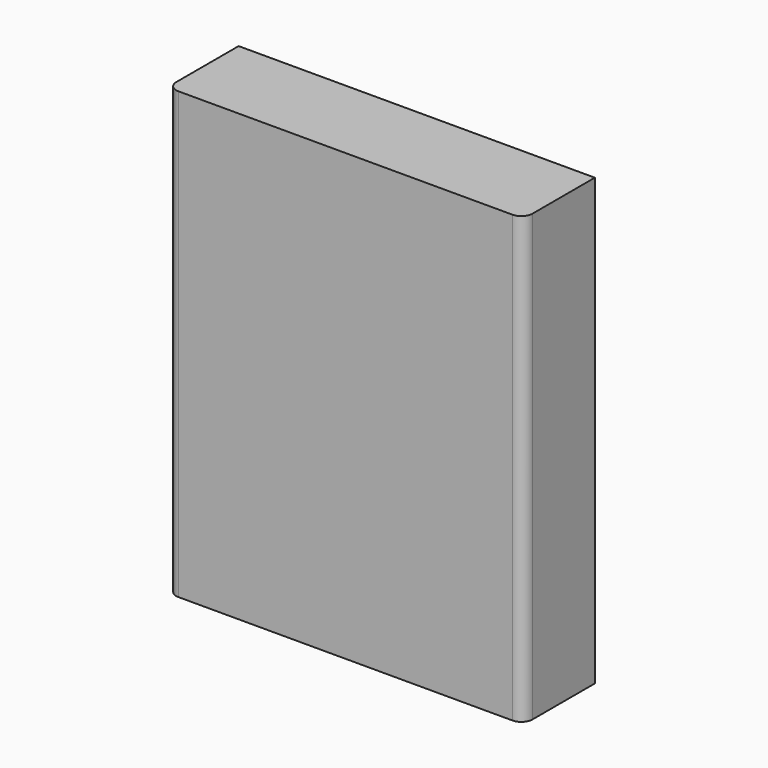
from build123d import *

# Parameters (mm, degrees)
F0_W     = 48
F0_H     = 12
F1_DEPTH = 60
F2_T     = -1
F3_R     = 1.5


with BuildPart() as f1:
    # F0 (on Top) → F1 (new body)
    with BuildSketch(Plane.XY):
        Rectangle(F0_W, F0_H)
    extrude(amount=F1_DEPTH)

    # F2
    f2_openings = [f1.faces().sort_by_distance(p)[0] for p in [
        (0, 6, 30),
    ]]
    offset(amount=F2_T, openings=f2_openings)

    # F3
    f3_edges = [f1.edges().sort_by_distance(p)[0] for p in [
        (24, -6, 30),
        (-24, -6, 30),
    ]]
    fillet(f3_edges, radius=F3_R)


solid = f1.part
